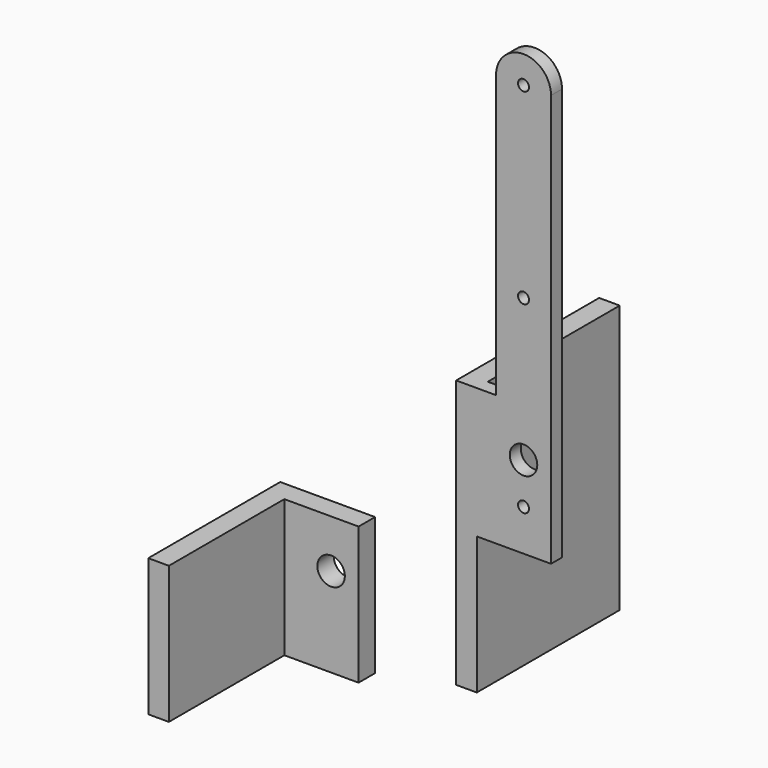
from build123d import *

# Parameters (mm, degrees)
F1_DEPTH = 38.1
F0_R     = 1.27
F0_R_2   = 3.175
F2_DEPTH = 3.175
F3_W     = 4.7625
F3_H     = 31.75
F4_DEPTH = 21.9075
F3_W_2   = 33.3375
F5_DEPTH = 4.7625
F6_R     = 3.175
F7_DEPTH = 25.4


with BuildPart() as f1:
    # F0 (on Front) → F1 (new body)
    with BuildSketch(Plane.XZ):
        Polygon((0, 61.9125), (0, 0), (4.7625, 0), (4.7625, 31.75), (4.7625, 61.9125), align=None)
    extrude(amount=-F1_DEPTH)

    # F0 (on Front) → F2 (join)
    with BuildSketch(Plane.XZ):
        Polygon((0, 61.9125), (0, 0), (4.7625, 0), (4.7625, 31.75), (4.7625, 61.9125), align=None)
        with BuildLine():
            Line((4.7625, 61.9125), (4.7625, 31.75))
            Line((4.7625, 31.75), (21.9075, 31.75))
            Line((21.9075, 31.75), (21.9075, 127))
            ThreePointArc((21.9075, 127), (15.5575, 133.35), (9.2075, 127))
            Line((9.2075, 127), (9.2075, 61.9125))
            Line((9.2075, 61.9125), (4.7625, 61.9125))
        make_face()
        with Locations((15.5575, 41.275)):
            Circle(F0_R, mode=Mode.SUBTRACT)
        with Locations((15.5575, 50.8)):
            Circle(F0_R_2, mode=Mode.SUBTRACT)
        with Locations((15.5575, 83.7565)):
            Circle(F0_R, mode=Mode.SUBTRACT)
        with Locations((15.5575, 127)):
            Circle(F0_R, mode=Mode.SUBTRACT)
    extrude(amount=F2_DEPTH)


with BuildPart() as f4:
    # F3 (on Right) → F4 (new body)
    with BuildSketch(Plane.YZ):
        with Locations((-56.35625, 46.0375)):
            Rectangle(F3_W, F3_H)
    extrude(amount=F4_DEPTH)

    # F3 (on Right) → F5 (join)
    with BuildSketch(Plane.YZ):
        with Locations((-75.40625, 46.0375)):
            Rectangle(F3_W_2, F3_H)
    extrude(amount=F5_DEPTH)

    # F6 (on face) → F7 (cut)
    with BuildSketch(Plane.XZ.offset(58.7375)):
        with Locations((15.5575, 50.8)):
            Circle(F6_R)
    extrude(amount=-F7_DEPTH, mode=Mode.SUBTRACT)


solid = Compound([f1.part, f4.part])
